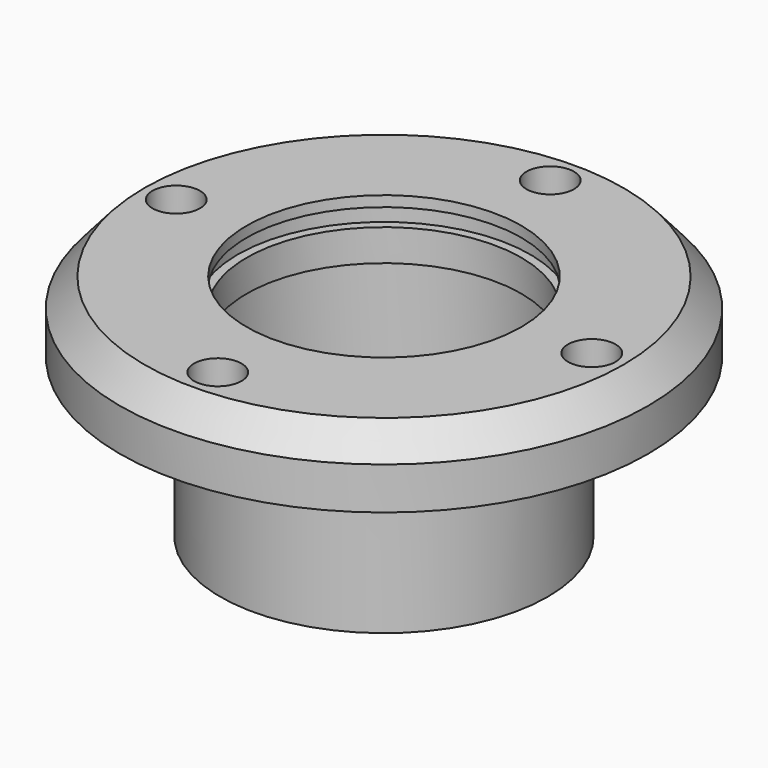
from build123d import *

# Parameters (mm, degrees)
F4_R     = 4.25
F5_DEPTH = 25
F4_R_2   = 6.75
F6_DEPTH = 8
F7_DEPTH = 8
F8_DEPTH = 8


with BuildPart() as f1:
    # F0 (on Front) → F1 (revolve)
    with BuildSketch(Plane.XZ):
        Polygon((75, 57), (68, 65), (39, 65), (39, 62), (41.5, 62), (41.5, 57), (39, 57), (39, 48), (40.5, 48), (40.5, 8), (39, 8), (39, 0), (46.5, 0), (46.5, 45), (75, 45), align=None)
    revolve(axis=Axis((0, 0, 14.0173053369), (0, 0, -1)))

    # F4 (on offset) → F5 (cut)
    with BuildSketch(Plane.XY.offset(65)):
        with Locations((0, 59)):
            Circle(F4_R)
        with Locations((-59, 0)):
            Circle(F4_R)
        with Locations((0, -59)):
            Circle(F4_R)
        with Locations((59, 0)):
            Circle(F4_R)
    extrude(amount=-F5_DEPTH, mode=Mode.SUBTRACT)

    # F4 (on offset) → F6 (cut)
    with BuildSketch(Plane.XY.offset(65)):
        with Locations((0, 59)):
            Circle(F4_R_2)
        with Locations((0, 59)):
            Circle(F4_R, mode=Mode.SUBTRACT)
    extrude(amount=-F6_DEPTH, mode=Mode.SUBTRACT)

    # F4 (on offset) → F7 (cut)
    with BuildSketch(Plane.XY.offset(65)):
        with Locations((-59, 0)):
            Circle(F4_R_2)
        with Locations((-59, 0)):
            Circle(F4_R, mode=Mode.SUBTRACT)
        with Locations((59, 0)):
            Circle(F4_R_2)
        with Locations((59, 0)):
            Circle(F4_R, mode=Mode.SUBTRACT)
        with Locations((0, -59)):
            Circle(F4_R_2)
        with Locations((0, -59)):
            Circle(F4_R, mode=Mode.SUBTRACT)
    extrude(amount=-F7_DEPTH, mode=Mode.SUBTRACT)

    # F4 (on offset) → F8 (cut)
    with BuildSketch(Plane.XY.offset(65)):
        with Locations((0, -59)):
            Circle(F4_R_2)
        with Locations((0, -59)):
            Circle(F4_R, mode=Mode.SUBTRACT)
    extrude(amount=-F8_DEPTH, mode=Mode.SUBTRACT)


solid = f1.part
